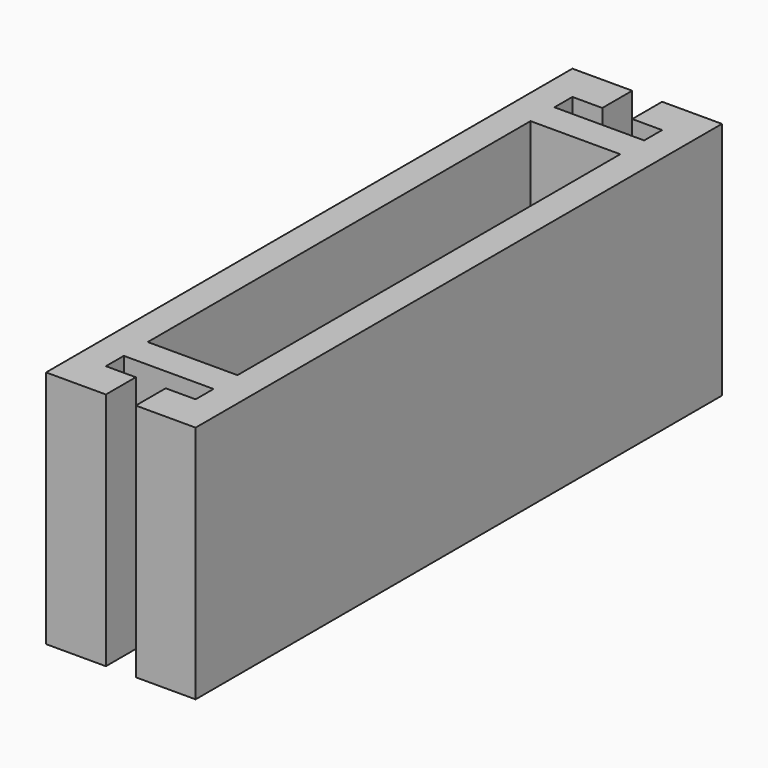
from build123d import *

# Parameters (mm, degrees)
F0_W     = 76.2
F0_H     = 406.4
F1_DEPTH = 203.2


with BuildPart() as f1:
    # F0 (on Top) → F1 (new body)
    with BuildSketch(Plane.XY):
        Polygon((0, 457.2), (0, 0), (25.4, 0), (101.6, 0), (127, 0), (127, 457.2), (127, 508), (76.2, 508), (76.2, 476.25), (101.6, 476.25), (101.6, 457.2), (76.2, 457.2), (63.5, 457.2), (50.8, 457.2), (25.4, 457.2), (25.4, 476.25), (50.8, 476.25), (50.8, 508), (0, 508), align=None)
        with Locations((63.5, 228.6)):
            Rectangle(F0_W, F0_H, mode=Mode.SUBTRACT)
        Polygon((25.4, 0), (0, 0), (0, -50.8), (50.8, -50.8), (50.8, -19.05), (25.4, -19.05), align=None)
        Polygon((127, 0), (101.6, 0), (101.6, -19.05), (76.2, -19.05), (76.2, -50.8), (127, -50.8), align=None)
    extrude(amount=F1_DEPTH)


solid = f1.part
